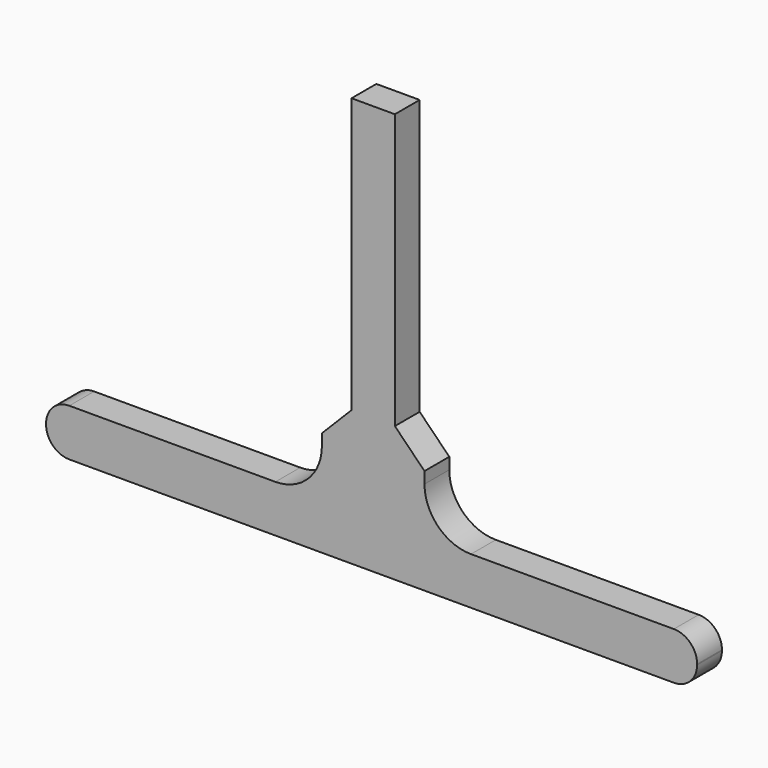
from build123d import *

# Parameters (mm, degrees)
PAD104_DEPTH = 4
FILLET035_R  = 3
FILLET036_R  = 6


with BuildPart() as part:
    # Sketch108 → Pad104 (new body)
    with BuildSketch(Plane.XZ.offset(25)):
        Polygon((-4.149489, 3.072018), (31.436102, 3.072018), (31.436102, 10.54521), (35.263586, 14.418702), (35.263586, 49.841579), (40.852331, 49.841579), (40.852331, 14.418702), (44.676023, 10.554439), (44.676023, 3.072018), (79.850511, 3.072018), (79.850511, -3.027098), (-4.149489, -3.027098), align=None)
    extrude(amount=PAD104_DEPTH)

    # Fillet035
    fillet035_edges = [part.edges().sort_by_distance(p)[0] for p in [
        (79.850511, -27, 3.072018),
        (79.850511, -27, -3.027098),
        (-4.149489, -27, -3.027098),
        (-4.149489, -27, 3.072018),
    ]]
    fillet(fillet035_edges, radius=FILLET035_R)

    # Fillet036
    fillet036_edges = [part.edges().sort_by_distance(p)[0] for p in [
        (44.676023, -27, 3.072018),
        (31.436102, -27, 3.072018),
    ]]
    fillet(fillet036_edges, radius=FILLET036_R)


with BuildPart() as part_1:
    # Fillet036 placement: moved
    add(part.part.moved(Location((0, 66, 0))))


solid = part_1.part
